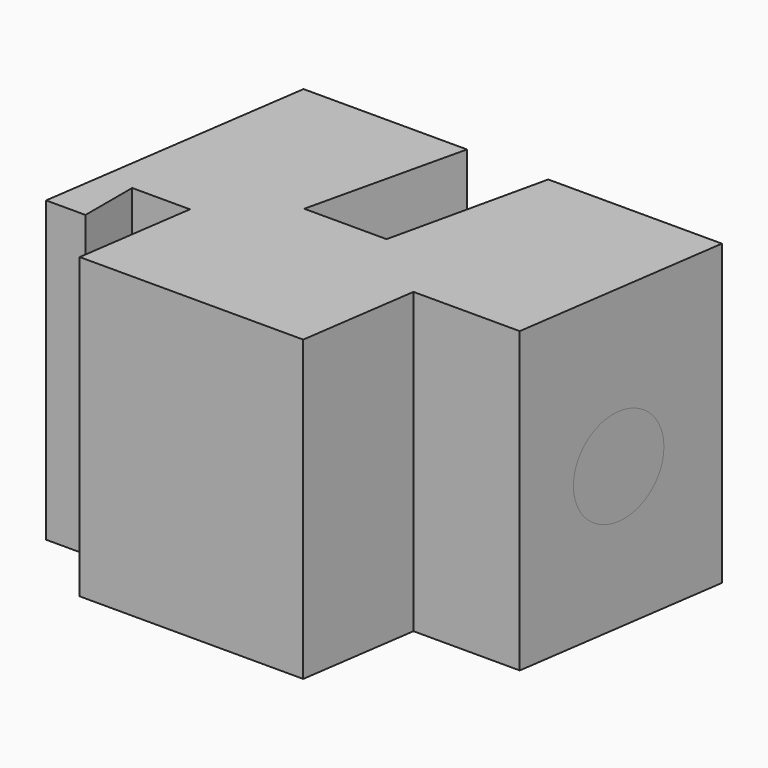
from build123d import *

# Parameters (mm, degrees)
F1_DEPTH = 25.4
F2_R     = 4.1166992961
F3_DEPTH = 19.05


with BuildPart() as f1:
    # F0 (on Top) → F1 (new body)
    with BuildSketch(Plane.XY):
        Polygon((20.4345360398, -13.3373579777), (29.4711300682, -13.3373579777), (32.0916213095, 4.8756692559), (17.3231568187, 4.8756692559), (14.3046656158, -8.5313916206), (7.3019531555, -8.5313916206), (10.4151992127, 4.8756692559), (-3.482290078, 4.8756692559), (-6.8314435608, -18.3031638536), (-3.482290078, -18.3031638536), (-3.482290078, -13.3373579777), (1.4289607804, -13.3373579777), (0.7144803902, -18.3031638536), (0, -23.2689697295), (19.0055752595, -23.2689697295), align=None)
    extrude(amount=F1_DEPTH)

    # F2 (on face) → F3 (cut)
    with BuildSketch(Plane(origin=(30.7534678394, -4.4248104437, 0), x_dir=(0.142413515, 0.9898072493, 0), z_dir=(0.9898072493, -0.142413515, 0))):
        with Locations((0, 12.0717538521)):
            Circle(F2_R)
    extrude(amount=F3_DEPTH, mode=Mode.SUBTRACT)


solid = f1.part
